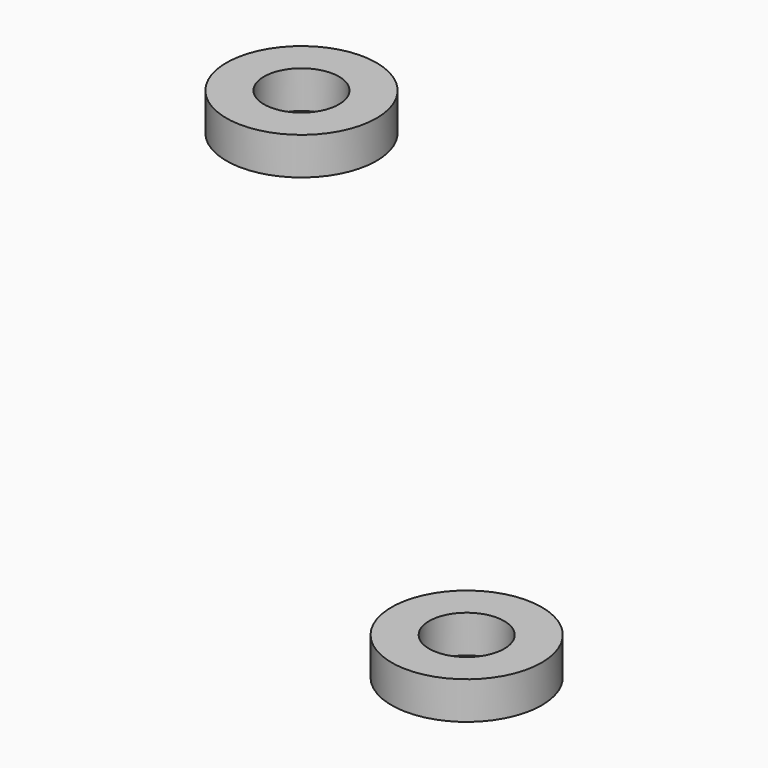
from build123d import *

# Parameters (mm, degrees)
CYLINDER074_R     = 2
CYLINDER074_DEPTH = 2
CYLINDER073_R     = 4
CYLINDER073_DEPTH = 2
CYLINDER072_R     = 2
CYLINDER072_DEPTH = 2
CYLINDER071_R     = 4
CYLINDER071_DEPTH = 2


with BuildPart() as cylinder074:
    # Cylinder074 → Cylinder074 (new body)
    with BuildSketch(Plane(origin=(0, 22, 20), x_dir=(1, 0, 0), z_dir=(0, 0, 1))):
        Circle(CYLINDER074_R)
    extrude(amount=CYLINDER074_DEPTH)


with BuildPart() as cut009:
    # Cylinder073 → Cylinder073 (new body)
    with BuildSketch(Plane(origin=(0, 22, 20), x_dir=(1, 0, 0), z_dir=(0, 0, 1))):
        Circle(CYLINDER073_R)
    extrude(amount=CYLINDER073_DEPTH)

    # Cut009: cut Cylinder074
    add(cylinder074.part, mode=Mode.SUBTRACT)


with BuildPart() as cut009_1:
    # Cut009 placement: moved
    add(cut009.part.moved(Location((36, -34, -4))))


with BuildPart() as cylinder072:
    # Cylinder072 → Cylinder072 (new body)
    with BuildSketch(Plane(origin=(0, 22, 20), x_dir=(1, 0, 0), z_dir=(0, 0, 1))):
        Circle(CYLINDER072_R)
    extrude(amount=CYLINDER072_DEPTH)


with BuildPart() as fanductmountpoints:
    # Cylinder071 → Cylinder071 (new body)
    with BuildSketch(Plane(origin=(0, 22, 20), x_dir=(1, 0, 0), z_dir=(0, 0, 1))):
        Circle(CYLINDER071_R)
    extrude(amount=CYLINDER071_DEPTH)

    # Cut008: cut Cylinder072
    add(cylinder072.part, mode=Mode.SUBTRACT)


with BuildPart() as fanductmountpoints_1:
    # Cut008 placement: moved
    add(fanductmountpoints.part.moved(Location((0, 0, -4))))

    # Fusion053: union Cut009
    add(cut009_1.part)


solid = fanductmountpoints_1.part
